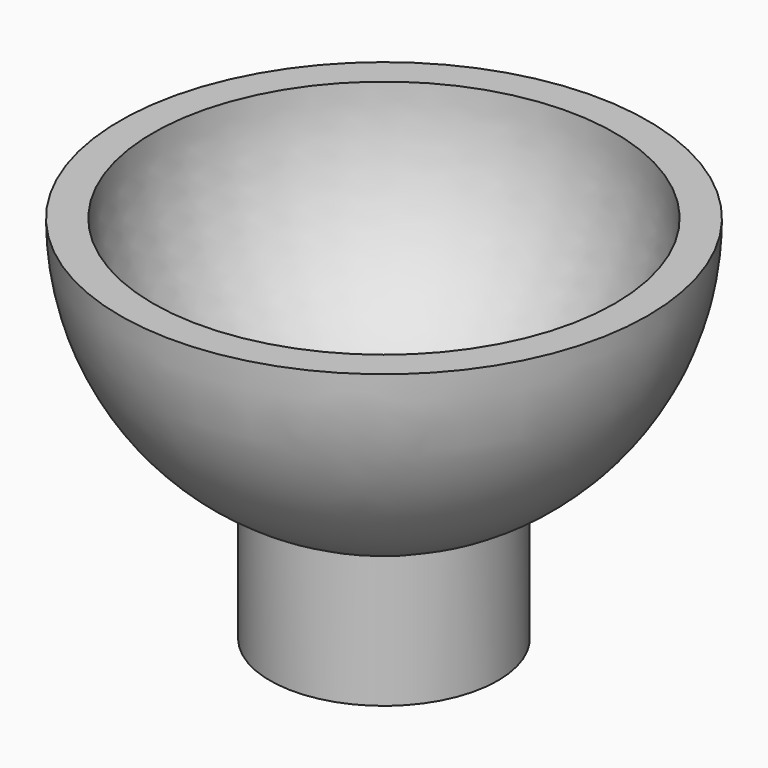
from build123d import *


with BuildPart() as f1:
    # F0 (on Front) → F1 (revolve)
    with BuildSketch(Plane.XZ):
        with BuildLine():
            Line((0, -22.225), (0, -25.4))
            ThreePointArc((0, -25.4), (3.943346, -25.092031), (7.791067, -24.175593))
            ThreePointArc((7.791067, -24.175593), (9.399863, -23.596664), (10.966067, -22.910814))
            ThreePointArc((10.966067, -22.910814), (21.490674, -13.539237), (25.4, 0))
            Line((25.4, 0), (22.225, 0))
            ThreePointArc((22.225, 0), (15.715448, -15.715448), (0, -22.225))
        make_face()
        with BuildLine():
            ThreePointArc((10.966067, -22.910814), (9.399863, -23.596664), (7.791067, -24.175593))
            Line((7.791067, -24.175593), (7.791067, -35.610814))
            Line((7.791067, -35.610814), (10.966067, -35.610814))
            Line((10.966067, -35.610814), (10.966067, -22.910814))
        make_face()
    revolve(axis=Axis((0, 0, -23.8125), (0, 0, -1)))


solid = f1.part
